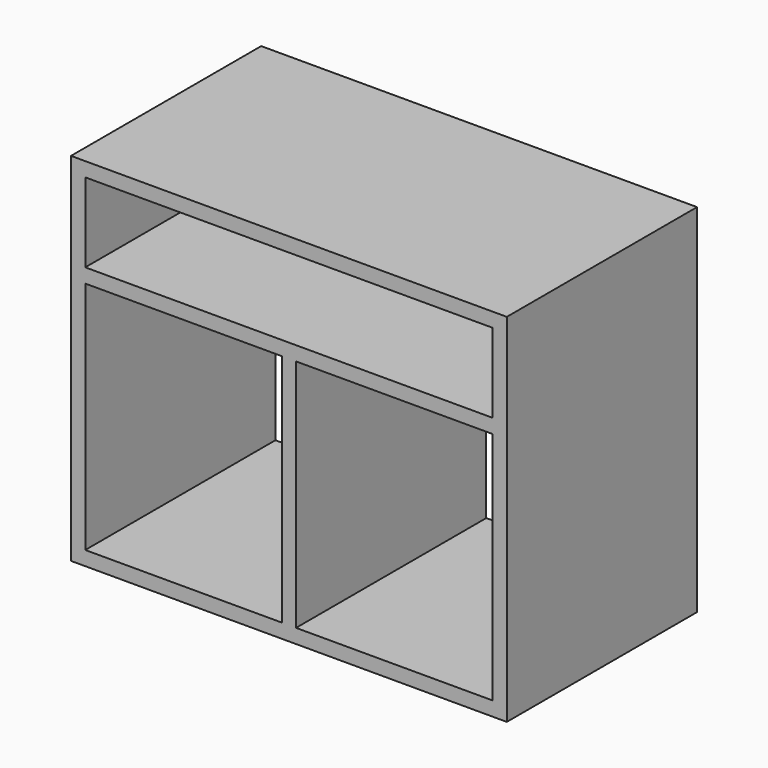
from build123d import *

# Parameters (mm, degrees)
F0_W     = 550
F0_H     = 300
F1_DEPTH = 18
F2_W     = 18
F2_H     = 300
F3_DEPTH = 414
F4_W     = 18
F4_H     = 300
F5_DEPTH = 296
F6_W     = 248
F6_H     = 300
F6_W_2   = 18
F7_DEPTH = 18
F8_W     = 532
F8_H     = 300
F8_W_2   = 18
F9_DEPTH = 18


with BuildPart() as f1:
    # F0 (on Top) → F1 (new body)
    with BuildSketch(Plane.XY):
        Rectangle(F0_W, F0_H)
    extrude(amount=F1_DEPTH)

    # F2 (on face) → F3 (join)
    with BuildSketch(Plane.XY.offset(18)):
        with Locations((-266, 0)):
            Rectangle(F2_W, F2_H)
        with Locations((266, 0)):
            Rectangle(F2_W, F2_H)
    extrude(amount=F3_DEPTH)

    # F4 (on face) → F5 (join)
    with BuildSketch(Plane.XY.offset(18)):
        Rectangle(F4_W, F4_H)
    extrude(amount=F5_DEPTH)

    # F6 (on face) → F7 (join)
    with BuildSketch(Plane.XY.offset(314)):
        with Locations((133, 0)):
            Rectangle(F6_W, F6_H)
        Rectangle(F6_W_2, F6_H)
        with Locations((-133, 0)):
            Rectangle(F6_W, F6_H)
    extrude(amount=F7_DEPTH)

    # F8 (on face) → F9 (join)
    with BuildSketch(Plane.XY.offset(432)):
        with Locations((9, 0)):
            Rectangle(F8_W, F8_H)
        with Locations((-266, 0)):
            Rectangle(F8_W_2, F8_H)
    extrude(amount=F9_DEPTH)


solid = f1.part
